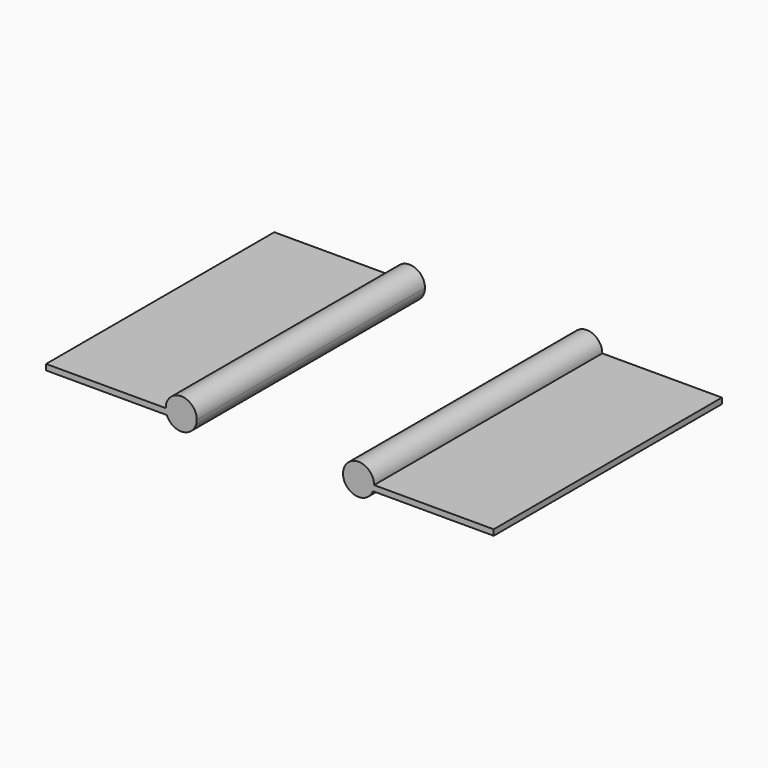
from build123d import *

# Parameters (mm, degrees)
F0_W     = 41.275
F0_H     = 98.425
F1_DEPTH = 1.984375
F3_DEPTH = 98.425


with BuildPart() as f1:
    # F0 (on Top) → F1 (new body)
    with BuildSketch(Plane.XY):
        with Locations((-56.586691, 0)):
            Rectangle(F0_W, F0_H)
        with Locations((56.586691, 0)):
            Rectangle(F0_W, F0_H)
    extrude(amount=F1_DEPTH)

    # F2 (on face) → F3 (join)
    with BuildSketch(Plane.XZ.offset(49.2125)):
        with BuildLine():
            ThreePointArc((-35.568166, 0), (-35.853073, 0.974063), (-35.949191, 1.984375))
            Line((-35.949191, 1.984375), (-35.949191, 0))
            Line((-35.949191, 0), (-35.568166, 0))
        make_face()
        with BuildLine():
            ThreePointArc((-35.568166, 0), (-29.581067, -3.277319), (-25.233566, 1.984375))
            ThreePointArc((-25.233566, 1.984375), (-30.591379, 7.342187), (-35.949191, 1.984375))
            ThreePointArc((-35.949191, 1.984375), (-35.853073, 0.974063), (-35.568166, 0))
        make_face()
    extrude(amount=-F3_DEPTH)

    # F4: F1 across plane


with BuildPart() as f1_1:
    add(f1.part)
    add(f1.part.mirror(Plane.YZ))


solid = f1_1.part
